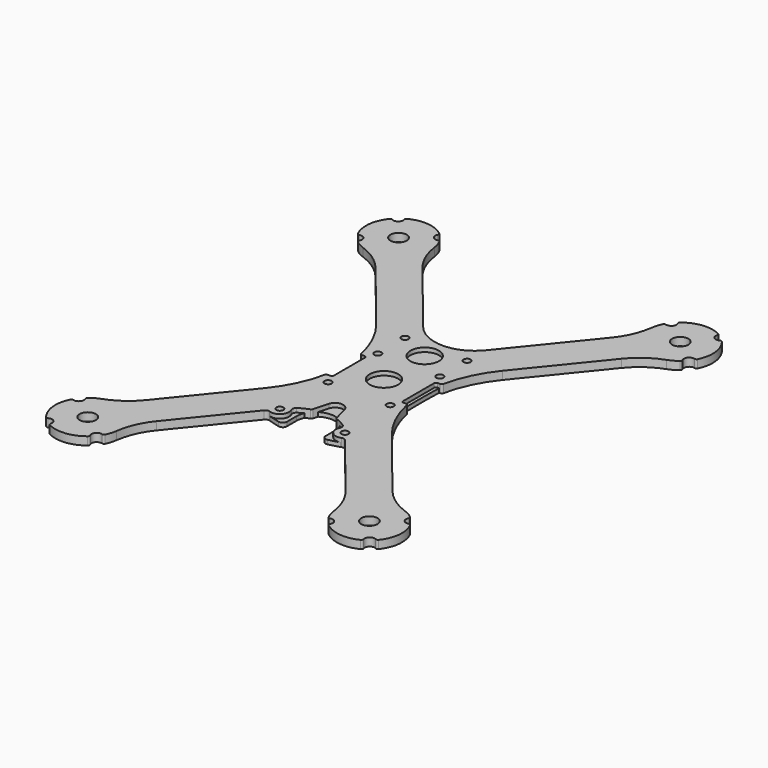
from build123d import *

# Parameters (mm, degrees)
F0_R     = 4
F0_R_2   = 1.75
F0_R_3   = 7
F1_DEPTH = 4
F2_R     = 1.75
F3_DEPTH = 2
F4_R     = 2


with BuildPart() as f1:
    # F0 (on Top) → F1 (new body)
    with BuildSketch(Plane.XY):
        with BuildLine():
            ThreePointArc((-74.610299, 80.419498), (-66.873519, 76.39184), (-60.51174, 70.424634))
            Line((-60.51174, 70.424634), (-31.058977, 34.053501))
            ThreePointArc((-31.058977, 34.053501), (-24.280268, 23.314496), (-20.191179, 11.291332))
            ThreePointArc((-20.191179, 11.291332), (-19.842212, 10.722611), (-19.213193, 10.5))
            Line((-19.213193, 10.5), (-18, 10.5))
            ThreePointArc((-18, 10.5), (-17.292893, 10.207107), (-17, 9.5))
            Line((-17, 9.5), (-17, 0))
            Line((-17, 0), (-17, -9.5))
            ThreePointArc((-17, -9.5), (-17.292893, -10.207107), (-18, -10.5))
            Line((-18, -10.5), (-19.213193, -10.5))
            ThreePointArc((-19.213193, -10.5), (-19.842212, -10.722611), (-20.191179, -11.291332))
            ThreePointArc((-20.191179, -11.291332), (-24.280268, -23.314496), (-31.058977, -34.053501))
            Line((-31.058977, -34.053501), (-60.51174, -70.424634))
            ThreePointArc((-60.51174, -70.424634), (-66.873519, -76.39184), (-74.610299, -80.419498))
            ThreePointArc((-74.610299, -80.419498), (-77.01131, -81.508318), (-79.20093, -82.976633))
            ThreePointArc((-79.20093, -82.976633), (-79.557121, -83.557863), (-79.458058, -84.232317))
            ThreePointArc((-79.458058, -84.232317), (-79.716713, -86.99023), (-82.360583, -87.816636))
            ThreePointArc((-82.360583, -87.816636), (-83.040894, -87.859965), (-83.535367, -88.329217))
            ThreePointArc((-83.535367, -88.329217), (-85.137593, -97.158511), (-81.734666, -105.461743))
            ThreePointArc((-81.734666, -105.461743), (-81.153436, -105.817934), (-80.478982, -105.718871))
            ThreePointArc((-80.478982, -105.718871), (-77.721068, -105.977526), (-76.894662, -108.621395))
            ThreePointArc((-76.894662, -108.621395), (-76.851334, -109.301707), (-76.382082, -109.79618))
            ThreePointArc((-76.382082, -109.79618), (-67.552788, -111.398406), (-59.249556, -107.995479))
            ThreePointArc((-59.249556, -107.995479), (-58.893365, -107.414248), (-58.992428, -106.739795))
            ThreePointArc((-58.992428, -106.739795), (-58.733773, -103.981881), (-56.089903, -103.155475))
            ThreePointArc((-56.089903, -103.155475), (-55.409592, -103.112147), (-54.915119, -102.642895))
            ThreePointArc((-54.915119, -102.642895), (-53.934138, -100.195843), (-53.368309, -97.620922))
            ThreePointArc((-53.368309, -97.620922), (-51.037233, -89.215812), (-46.523113, -81.752401))
            Line((-46.523113, -81.752401), (-19.855335, -48.820438))
            ThreePointArc((-19.855335, -48.820438), (-18.823188, -48.148441), (-17.59303, -48.208593))
            ThreePointArc((-17.59303, -48.208593), (-12.678854, -47.036443), (-11.950644, -42.037166))
            ThreePointArc((-11.950644, -42.037166), (-12.084991, -40.655473), (-11.287544, -39.519162))
            ThreePointArc((-11.287544, -39.519162), (-8.974236, -38.143059), (-6.496109, -37.092371))
            ThreePointArc((-6.496109, -37.092371), (-6.093086, -36.83072), (-5.858632, -36.411292))
            Line((-5.858632, -36.411292), (-3.858176, -29.100312))
            ThreePointArc((-3.858176, -29.100312), (0, -26.155999), (3.858176, -29.100312))
            Line((3.858176, -29.100312), (5.858632, -36.411292))
            ThreePointArc((5.858632, -36.411292), (6.093086, -36.83072), (6.496109, -37.092371))
            ThreePointArc((6.496109, -37.092371), (8.974236, -38.143059), (11.287544, -39.519162))
            ThreePointArc((11.287544, -39.519162), (12.084991, -40.655473), (11.950644, -42.037166))
            ThreePointArc((11.950644, -42.037166), (12.678854, -47.036443), (17.59303, -48.208593))
            ThreePointArc((17.59303, -48.208593), (18.823188, -48.148441), (19.855335, -48.820438))
            Line((19.855335, -48.820438), (46.523113, -81.752401))
            ThreePointArc((46.523113, -81.752401), (51.037233, -89.215812), (53.368309, -97.620922))
            ThreePointArc((53.368309, -97.620922), (53.934138, -100.195843), (54.915119, -102.642895))
            ThreePointArc((54.915119, -102.642895), (55.409592, -103.112147), (56.089903, -103.155475))
            ThreePointArc((56.089903, -103.155475), (58.733773, -103.981881), (58.992428, -106.739795))
            ThreePointArc((58.992428, -106.739795), (58.893365, -107.414248), (59.249556, -107.995479))
            ThreePointArc((59.249556, -107.995479), (67.552788, -111.398406), (76.382082, -109.79618))
            ThreePointArc((76.382082, -109.79618), (76.851334, -109.301707), (76.894662, -108.621395))
            ThreePointArc((76.894662, -108.621395), (77.721068, -105.977526), (80.478982, -105.718871))
            ThreePointArc((80.478982, -105.718871), (81.153436, -105.817934), (81.734666, -105.461743))
            ThreePointArc((81.734666, -105.461743), (85.137593, -97.158511), (83.535367, -88.329217))
            ThreePointArc((83.535367, -88.329217), (83.040894, -87.859965), (82.360583, -87.816636))
            ThreePointArc((82.360583, -87.816636), (79.716713, -86.99023), (79.458058, -84.232317))
            ThreePointArc((79.458058, -84.232317), (79.557121, -83.557863), (79.20093, -82.976633))
            ThreePointArc((79.20093, -82.976633), (77.01131, -81.508318), (74.610299, -80.419498))
            ThreePointArc((74.610299, -80.419498), (66.873519, -76.39184), (60.51174, -70.424634))
            Line((60.51174, -70.424634), (31.058977, -34.053501))
            ThreePointArc((31.058977, -34.053501), (24.280268, -23.314496), (20.191179, -11.291332))
            ThreePointArc((20.191179, -11.291332), (19.842212, -10.722611), (19.213193, -10.5))
            Line((19.213193, -10.5), (18, -10.5))
            ThreePointArc((18, -10.5), (17.292893, -10.207107), (17, -9.5))
            Line((17, -9.5), (17, 0))
            Line((17, 0), (17, 9.5))
            ThreePointArc((17, 9.5), (17.292893, 10.207107), (18, 10.5))
            Line((18, 10.5), (19.213193, 10.5))
            ThreePointArc((19.213193, 10.5), (19.842212, 10.722611), (20.191179, 11.291332))
            ThreePointArc((20.191179, 11.291332), (24.280268, 23.314496), (31.058977, 34.053501))
            Line((31.058977, 34.053501), (60.51174, 70.424634))
            ThreePointArc((60.51174, 70.424634), (66.873519, 76.39184), (74.610299, 80.419498))
            ThreePointArc((74.610299, 80.419498), (77.01131, 81.508318), (79.20093, 82.976633))
            ThreePointArc((79.20093, 82.976633), (79.557121, 83.557863), (79.458058, 84.232317))
            ThreePointArc((79.458058, 84.232317), (79.716713, 86.99023), (82.360583, 87.816636))
            ThreePointArc((82.360583, 87.816636), (83.040894, 87.859965), (83.535367, 88.329217))
            ThreePointArc((83.535367, 88.329217), (85.137593, 97.158511), (81.734666, 105.461743))
            ThreePointArc((81.734666, 105.461743), (81.153436, 105.817934), (80.478982, 105.718871))
            ThreePointArc((80.478982, 105.718871), (77.721068, 105.977526), (76.894662, 108.621395))
            ThreePointArc((76.894662, 108.621395), (76.851334, 109.301707), (76.382082, 109.79618))
            ThreePointArc((76.382082, 109.79618), (67.552788, 111.398406), (59.249556, 107.995479))
            ThreePointArc((59.249556, 107.995479), (58.893365, 107.414248), (58.992428, 106.739795))
            ThreePointArc((58.992428, 106.739795), (58.733773, 103.981881), (56.089903, 103.155475))
            ThreePointArc((56.089903, 103.155475), (55.409592, 103.112147), (54.915119, 102.642895))
            ThreePointArc((54.915119, 102.642895), (53.934138, 100.195843), (53.368309, 97.620922))
            ThreePointArc((53.368309, 97.620922), (51.037233, 89.215812), (46.523113, 81.752401))
            Line((46.523113, 81.752401), (15.435446, 43.36233))
            ThreePointArc((15.435446, 43.36233), (8.550686, 37.934823), (0, 36))
            ThreePointArc((0, 36), (-8.550686, 37.934823), (-15.435446, 43.36233))
            Line((-15.435446, 43.36233), (-46.523113, 81.752401))
            ThreePointArc((-46.523113, 81.752401), (-51.037233, 89.215812), (-53.368309, 97.620922))
            ThreePointArc((-53.368309, 97.620922), (-53.934138, 100.195843), (-54.915119, 102.642895))
            ThreePointArc((-54.915119, 102.642895), (-55.409592, 103.112147), (-56.089903, 103.155475))
            ThreePointArc((-56.089903, 103.155475), (-58.733773, 103.981881), (-58.992428, 106.739795))
            ThreePointArc((-58.992428, 106.739795), (-58.893365, 107.414248), (-59.249556, 107.995479))
            ThreePointArc((-59.249556, 107.995479), (-67.552788, 111.398406), (-76.382082, 109.79618))
            ThreePointArc((-76.382082, 109.79618), (-76.851334, 109.301707), (-76.894662, 108.621395))
            ThreePointArc((-76.894662, 108.621395), (-77.721068, 105.977526), (-80.478982, 105.718871))
            ThreePointArc((-80.478982, 105.718871), (-81.153436, 105.817934), (-81.734666, 105.461743))
            ThreePointArc((-81.734666, 105.461743), (-85.137593, 97.158511), (-83.535367, 88.329217))
            ThreePointArc((-83.535367, 88.329217), (-83.040894, 87.859965), (-82.360583, 87.816636))
            ThreePointArc((-82.360583, 87.816636), (-79.716713, 86.99023), (-79.458058, 84.232317))
            ThreePointArc((-79.458058, 84.232317), (-79.557121, 83.557863), (-79.20093, 82.976633))
            ThreePointArc((-79.20093, 82.976633), (-77.01131, 81.508318), (-74.610299, 80.419498))
        make_face()
        with Locations((-69.225243, -95.486056)):
            Circle(F0_R, mode=Mode.SUBTRACT)
        with Locations((-16, -44)):
            Circle(F0_R_2, mode=Mode.SUBTRACT)
        with Locations((-15.25, -15.25)):
            Circle(F0_R_2, mode=Mode.SUBTRACT)
        with Locations((69.225243, -95.486056)):
            Circle(F0_R, mode=Mode.SUBTRACT)
        with Locations((16, -44)):
            Circle(F0_R_2, mode=Mode.SUBTRACT)
        with Locations((15.25, -15.25)):
            Circle(F0_R_2, mode=Mode.SUBTRACT)
        Circle(F0_R_3, mode=Mode.SUBTRACT)
        with Locations((-15.25, 15.25)):
            Circle(F0_R_2, mode=Mode.SUBTRACT)
        with Locations((-15.25, 32)):
            Circle(F0_R_2, mode=Mode.SUBTRACT)
        with Locations((-69.225243, 95.486056)):
            Circle(F0_R, mode=Mode.SUBTRACT)
        with Locations((0, 25)):
            Circle(F0_R_3, mode=Mode.SUBTRACT)
        with Locations((15.25, 15.25)):
            Circle(F0_R_2, mode=Mode.SUBTRACT)
        with Locations((15.25, 32)):
            Circle(F0_R_2, mode=Mode.SUBTRACT)
        with Locations((69.225243, 95.486056)):
            Circle(F0_R, mode=Mode.SUBTRACT)
    extrude(amount=F1_DEPTH)


with BuildPart() as f3:
    # F2 (on Top) → F3 (new body)
    with BuildSketch(Plane.XY):
        with BuildLine():
            ThreePointArc((13.707865, 36.227508), (0, 33.805353), (-13.707865, 36.227508))
            ThreePointArc((-13.707865, 36.227508), (-17.965469, 35.588346), (-19.737484, 31.664614))
            ThreePointArc((-19.737484, 31.664614), (-18.518945, -5.971441), (-20.479992, -43.57612))
            ThreePointArc((-20.479992, -43.57612), (-19.746008, -46.493476), (-17.337937, -48.296501))
            ThreePointArc((-17.337937, -48.296501), (-13.445727, -49.394347), (-9.5, -50.280801))
            Line((-9.5, -50.280801), (-9.5, -42))
            ThreePointArc((-9.5, -42), (0, -32.5), (9.5, -42))
            Line((9.5, -42), (9.5, -50.280801))
            ThreePointArc((9.5, -50.280801), (13.445727, -49.394347), (17.337937, -48.296501))
            ThreePointArc((17.337937, -48.296501), (19.746008, -46.493476), (20.479992, -43.57612))
            ThreePointArc((20.479992, -43.57612), (18.518945, -5.971441), (19.737484, 31.664614))
            ThreePointArc((19.737484, 31.664614), (17.965469, 35.588346), (13.707865, 36.227508))
        make_face()
        with Locations((-16, -44)):
            Circle(F2_R, mode=Mode.SUBTRACT)
        with Locations((-15.25, -15.25)):
            Circle(F2_R, mode=Mode.SUBTRACT)
        with Locations((16, -44)):
            Circle(F2_R, mode=Mode.SUBTRACT)
        with Locations((15.25, -15.25)):
            Circle(F2_R, mode=Mode.SUBTRACT)
        with Locations((-15.25, 32)):
            Circle(F2_R, mode=Mode.SUBTRACT)
        with Locations((15.25, 32)):
            Circle(F2_R, mode=Mode.SUBTRACT)
    extrude(amount=F3_DEPTH)

    # F4
    f4_edges = [f3.edges().sort_by_distance(p)[0] for p in [
        (-9.5, -50.280801, 1),
        (9.5, -50.280801, 1),
    ]]
    fillet(f4_edges, radius=F4_R)


solid = Compound([f1.part, f3.part])
